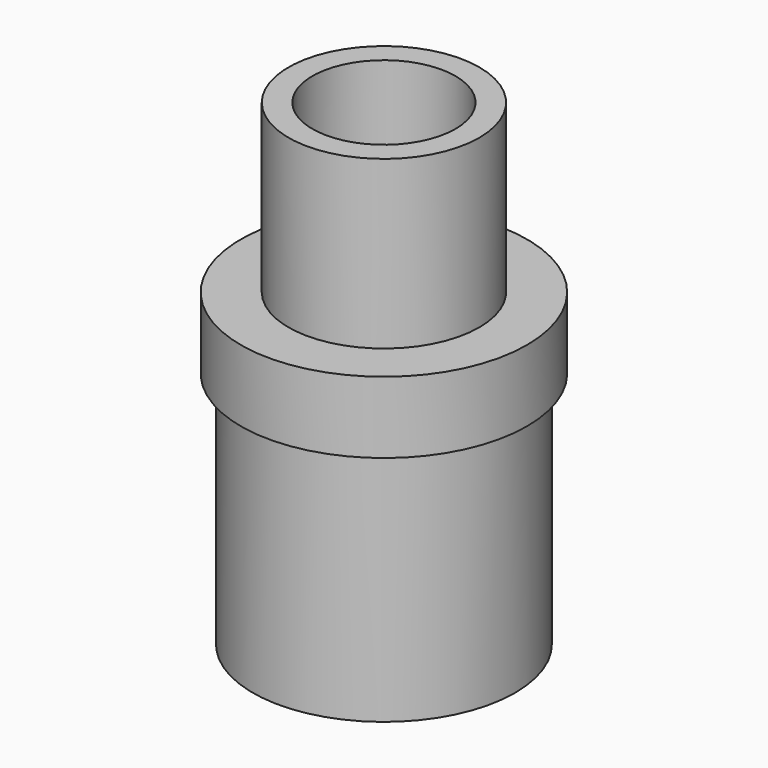
from build123d import *

# Parameters (mm, degrees)
F0_R     = 4
F0_R_2   = 3
F1_DEPTH = 10
F2_R     = 6
F2_R_2   = 3
F3_DEPTH = 3
F4_R     = 5.5
F4_R_2   = 4.5
F5_DEPTH = 10


with BuildPart() as f1:
    # F0 (on Top) → F1 (new body)
    with BuildSketch(Plane.XY):
        Circle(F0_R)
        Circle(F0_R_2, mode=Mode.SUBTRACT)
    extrude(amount=F1_DEPTH)

    # F2 (on Top) → F3 (join)
    with BuildSketch(Plane.XY):
        Circle(F2_R)
        Circle(F2_R_2, mode=Mode.SUBTRACT)
    extrude(amount=F3_DEPTH)

    # F4 (on Top) → F5 (join)
    with BuildSketch(Plane.XY):
        Circle(F4_R)
        Circle(F4_R_2, mode=Mode.SUBTRACT)
    extrude(amount=-F5_DEPTH)


solid = f1.part
